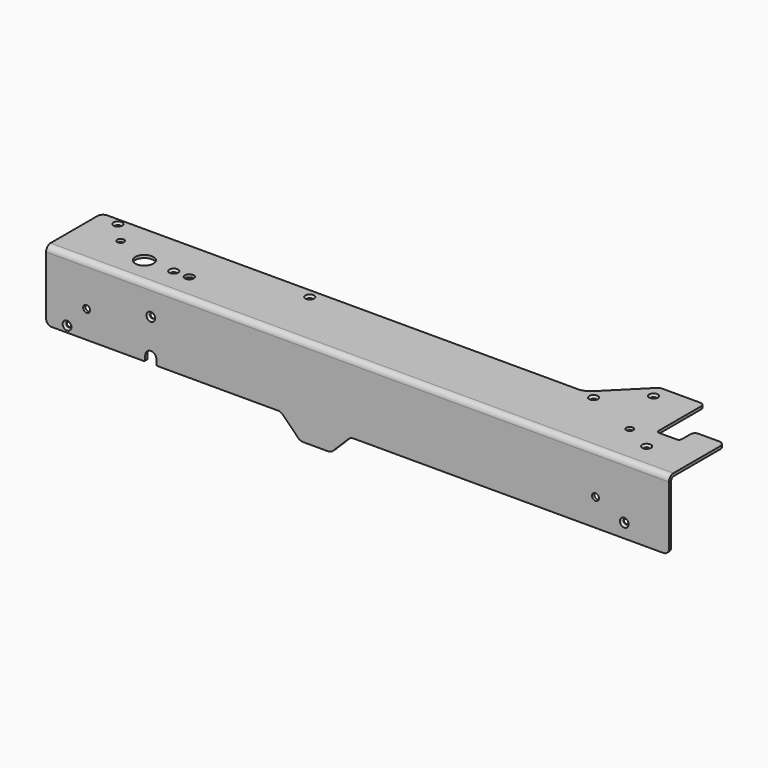
from build123d import *

# Parameters (mm, degrees)
SKETCH_R        = 6.5
SKETCH_R_2      = 1.7
SKETCH_R_3      = 3.15
SKETCH_R_4      = 2.46
PAD_DEPTH       = 2
FILLET_R        = 4
FILLET001_R     = 2
FILLET002_R     = 3
CHAMFER_SIZE    = 1.45
SKETCH001_R     = 1.7
SKETCH001_R_2   = 2.46
PAD001_DEPTH    = 2
CHAMFER001_SIZE = 1.45
POCKET_DEPTH    = 5
FILLET003_R     = 4
FILLET004_R     = 5
FILLET005_R     = 1
FILLET006_R     = 2
FILLET007_R     = 4


with BuildPart() as part:
    # Sketch → Pad (new body)
    with BuildSketch(Plane.XY):
        with BuildLine():
            Line((-223, 0), (223, 0))
            Line((223, 0), (223, 50))
            Line((223, 50), (201, 50))
            Line((201, 50), (201, 37))
            Line((201, 37), (184.5, 37))
            Line((184.5, 37), (184.5, 76.996797))
            ThreePointArc((184.5, 76.996797), (183.62132, 79.118117), (181.5, 79.996797))
            Line((181.5, 79.996797), (153.74, 79.996797))
            ThreePointArc((153.74, 79.996797), (152.59195, 79.768435), (151.61868, 79.118117))
            Line((126.015281, 53.514719), (151.61868, 79.118117))
            ThreePointArc((117.53, 50), (122.122201, 50.913446), (126.015281, 53.514719))
            Line((-219, 50), (117.53, 50))
            ThreePointArc((-219, 50), (-221.828427, 48.828427), (-223, 46))
            Line((-223, 0), (-223, 46))
        make_face()
        with Locations((-169, 20.5)):
            Circle(SKETCH_R, mode=Mode.SUBTRACT)
        with Locations((-148, 20.5)):
            Circle(SKETCH_R_2, mode=Mode.SUBTRACT)
        with Locations((-136.85, 20.5)):
            Circle(SKETCH_R_3, mode=Mode.SUBTRACT)
        with Locations((-208, 45.5)):
            Circle(SKETCH_R_2, mode=Mode.SUBTRACT)
        with Locations((-69, 43.5)):
            Circle(SKETCH_R_2, mode=Mode.SUBTRACT)
        with Locations((156, 69.996797)):
            Circle(SKETCH_R_2, mode=Mode.SUBTRACT)
        with Locations((131, 47.54)):
            Circle(SKETCH_R_2, mode=Mode.SUBTRACT)
        with Locations((170.5, 30.5)):
            Circle(SKETCH_R_4, mode=Mode.SUBTRACT)
        with Locations((191, 20)):
            Circle(SKETCH_R_2, mode=Mode.SUBTRACT)
        with Locations((-194, 30.5)):
            Circle(SKETCH_R_4, mode=Mode.SUBTRACT)
    extrude(amount=PAD_DEPTH)

    # Fillet
    fillet_edges = [part.edges().sort_by_distance(p)[0] for p in [
        (223, 50, 1),
    ]]
    fillet(fillet_edges, radius=FILLET_R)

    # Fillet001
    fillet001_edges = [part.edges().sort_by_distance(p)[0] for p in [
        (201, 37, 1),
        (184.5, 37, 1),
    ]]
    fillet(fillet001_edges, radius=FILLET001_R)

    # Fillet002
    fillet002_edges = [part.edges().sort_by_distance(p)[0] for p in [
        (201, 50, 1),
    ]]
    fillet(fillet002_edges, radius=FILLET002_R)

    # Chamfer
    chamfer_edges = [part.edges().sort_by_distance(p)[0] for p in [
        (189.3, 20, 2),
        (154.3, 69.996797, 2),
        (129.3, 47.54, 2),
        (-70.7, 43.5, 2),
        (-149.7, 20.5, 2),
        (-209.7, 45.5, 2),
    ]]
    chamfer(chamfer_edges, length=CHAMFER_SIZE)

    # Sketch001 → Pad001 (new body)
    with BuildSketch(Plane.XZ):
        Polygon((-223, 2), (223, 2), (223, -48), (-5, -48), (-19, -62), (-41, -62), (-55, -48), (-223, -48), align=None)
        with Locations((-208, -43.5)):
            Circle(SKETCH001_R, mode=Mode.SUBTRACT)
        with Locations((-194, -28.5)):
            Circle(SKETCH001_R_2, mode=Mode.SUBTRACT)
        with Locations((-148, -18.5)):
            Circle(SKETCH001_R, mode=Mode.SUBTRACT)
        with Locations((191, -38)):
            Circle(SKETCH001_R, mode=Mode.SUBTRACT)
        with Locations((170.4, -28.5)):
            Circle(SKETCH001_R_2, mode=Mode.SUBTRACT)
    extrude(amount=-PAD001_DEPTH)

    # Chamfer001
    chamfer001_edges = [part.edges().sort_by_distance(p)[0] for p in [
        (189.3, 0, -38),
        (-149.7, 0, -18.5),
        (-209.7, 0, -43.5),
    ]]
    chamfer(chamfer001_edges, length=CHAMFER001_SIZE)

    # Sketch002 → Pocket (cut)
    with BuildSketch(Plane.XZ):
        with BuildLine():
            Line((-152, -48), (-152, -43.999997))
            ThreePointArc((-144, -44), (-147.999999, -39.999998), (-152, -43.999997))
            Line((-144, -48), (-144, -44))
            Line((-152, -48), (-144, -48))
        make_face()
    extrude(amount=-POCKET_DEPTH, mode=Mode.SUBTRACT)

    # Fillet003
    fillet003_edges = [part.edges().sort_by_distance(p)[0] for p in [
        (-223, 1, -48),
        (223, 1, -48),
    ]]
    fillet(fillet003_edges, radius=FILLET003_R)

    # Fillet004
    fillet004_edges = [part.edges().sort_by_distance(p)[0] for p in [
        (-5, 1, -48),
        (-19, 1, -62),
        (-41, 1, -62),
        (-55, 1, -48),
    ]]
    fillet(fillet004_edges, radius=FILLET004_R)

    # Fillet005
    fillet005_edges = [part.edges().sort_by_distance(p)[0] for p in [
        (-152, 1, -48),
        (-144, 1, -48),
    ]]
    fillet(fillet005_edges, radius=FILLET005_R)

    # Fillet006
    fillet006_edges = [part.edges().sort_by_distance(p)[0] for p in [
        (0, 2, 0),
    ]]
    fillet(fillet006_edges, radius=FILLET006_R)

    # Fillet007
    fillet007_edges = [part.edges().sort_by_distance(p)[0] for p in [
        (0, 0, 2),
    ]]
    fillet(fillet007_edges, radius=FILLET007_R)


solid = part.part
